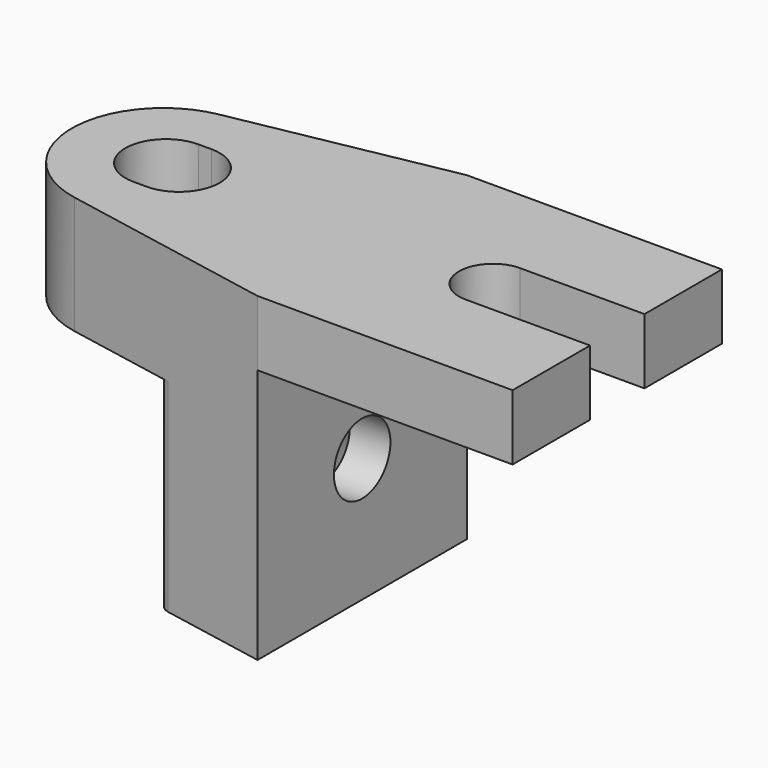
from build123d import *

# Parameters (mm, degrees)
PAD_DEPTH       = 24.5
SKETCH001_W     = 15
SKETCH001_H     = 12
POCKET_DEPTH    = 14.5
SKETCH002_W     = 20
SKETCH002_H     = 20
POCKET001_DEPTH = 19.5
SKETCH003_R     = 2.7
POCKET002_DEPTH = 22.19959
POCKET003_DEPTH = 15.5
CHAMFER_SIZE    = 2.4
FILLET_R        = 1


with BuildPart() as part:
    # Sketch → Pad (new body)
    with BuildSketch(Plane.XY):
        with BuildLine():
            Line((-2, 6.87796), (14.5, 10))
            Line((14.5, 10), (34, 10))
            Line((34, 10), (34, 2.6))
            Line((24.5, 2.6), (34, 2.6))
            ThreePointArc((24.5, 2.6), (21.9, 0), (24.5, -2.6))
            Line((24.5, -2.6), (34, -2.6))
            Line((34, -2.6), (34, -10))
            Line((34, -10), (14.5, -10))
            Line((14.5, -10), (-2, -6.87796))
            ThreePointArc((-2, 6.87796), (-7.69859, 0), (-2, -6.87796))
        make_face()
        with BuildLine():
            ThreePointArc((-0.5, 3.1), (-3.6, 0), (-0.5, -3.1))
            Line((-0.5, -3.1), (0.5, -3.1))
            ThreePointArc((0.5, -3.1), (3.6, 0), (0.5, 3.1))
            Line((-0.5, 3.1), (0.5, 3.1))
        make_face(mode=Mode.SUBTRACT)
    extrude(amount=PAD_DEPTH)

    # Sketch001 (on Face3 of Pad) → Pocket (cut)
    with BuildSketch(Plane.YZ.offset(34)):
        with Locations((2, 0)):
            Rectangle(SKETCH001_W, SKETCH001_H)
    extrude(amount=-POCKET_DEPTH, mode=Mode.SUBTRACT)

    # Sketch002 (on Face4 of Pocket) → Pocket001 (cut)
    with BuildSketch(Plane(origin=(0, 0, 0), x_dir=(1, 0, 0), z_dir=(0, 0, -1))):
        with Locations((24.5, 0)):
            Rectangle(SKETCH002_W, SKETCH002_H)
    extrude(amount=-POCKET001_DEPTH, mode=Mode.SUBTRACT)

    # Sketch003 (on Face5 of Pocket001) → Pocket002 (cut, through all)
    with BuildSketch(Plane.YZ.offset(14.5)):
        with Locations((0, 9.5)):
            Circle(SKETCH003_R)
    extrude(amount=-POCKET002_DEPTH, mode=Mode.SUBTRACT)

    # Sketch004 (on Face2 of Pocket002) → Pocket003 (cut)
    with BuildSketch(Plane(origin=(0, 0, 0), x_dir=(1, 0, 0), z_dir=(0, 0, -1))):
        with BuildLine():
            ThreePointArc((7.345747, 5.2), (-9, 0), (7.345747, -5.2))
            Line((9, -5.2), (7.345747, -5.2))
            Line((9, 5.2), (9, -5.2))
            Line((7.345747, 5.2), (9, 5.2))
        make_face()
    extrude(amount=-POCKET003_DEPTH, mode=Mode.SUBTRACT)

    # Chamfer
    chamfer_edges = [part.edges().sort_by_distance(p)[0] for p in [
        (9, -2.7, 9.5),
    ]]
    chamfer(chamfer_edges, length=CHAMFER_SIZE)

    # Fillet
    fillet_edges = [part.edges().sort_by_distance(p)[0] for p in [
        (4.070941, 8.02667, 7.75),
        (7.345747, 5.2, 7.75),
        (7.345747, -5.2, 7.75),
        (4.070941, -8.02667, 7.75),
    ]]
    fillet(fillet_edges, radius=FILLET_R)


solid = part.part
